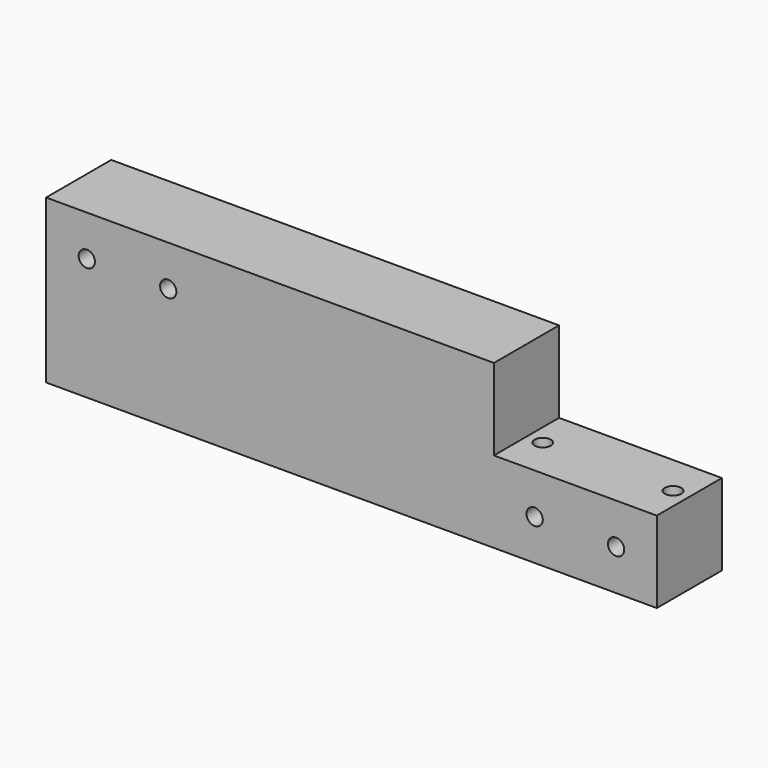
from build123d import *

# Parameters (mm, degrees)
F0_W     = 375
F0_H     = 100
F1_DEPTH = 50
F2_R     = 5
F3_DEPTH = 75
F4_W     = 100
F4_H     = 50
F5_DEPTH = 50.001
F6_R     = 5
F7_DEPTH = 50.001
F8_R     = 5
F9_DEPTH = 25


with BuildPart() as f1:
    # F0 (on Front) → F1 (new body)
    with BuildSketch(Plane.XZ):
        Rectangle(F0_W, F0_H)
    extrude(amount=F1_DEPTH)

    # F2 (on face) → F3 (cut)
    with BuildSketch(Plane.XY.offset(50)):
        with Locations((97.5, -25)):
            Circle(F2_R)
        with Locations((177.5, -25)):
            Circle(F2_R)
    extrude(amount=-F3_DEPTH, mode=Mode.SUBTRACT)

    # F4 (on face) → F5 (cut, through all)
    with BuildSketch(Plane.XZ.offset(50)):
        with Locations((137.5, 25)):
            Rectangle(F4_W, F4_H)
    extrude(amount=-F5_DEPTH, mode=Mode.SUBTRACT)

    # F6 (on face) → F7 (cut, through all)
    with BuildSketch(Plane(origin=(0, 0, 0), x_dir=(-1, 0, 0), z_dir=(0, 1, 0))):
        with Locations((-112.5, -25)):
            Circle(F6_R)
        with Locations((-162.5, -25)):
            Circle(F6_R)
        with Locations((162.5, 25)):
            Circle(F6_R)
        with Locations((112.5, 25)):
            Circle(F6_R)
    extrude(amount=-F7_DEPTH, mode=Mode.SUBTRACT)

    # F8 (on face) → F9 (cut)
    with BuildSketch(Plane(origin=(0, 0, -50), x_dir=(1, 0, 0), z_dir=(0, 0, -1))):
        with Locations((-162.5, 25)):
            Circle(F8_R)
        with Locations((-112.5, 25)):
            Circle(F8_R)
    extrude(amount=-F9_DEPTH, mode=Mode.SUBTRACT)


solid = f1.part
